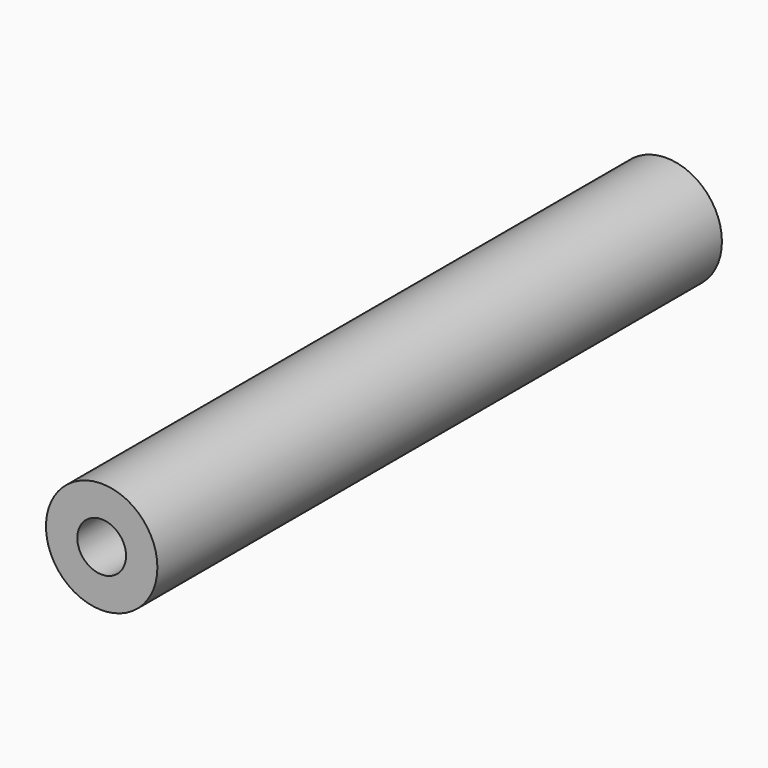
from build123d import *

# Parameters (mm, degrees)
F0_R     = 9.525
F1_DEPTH = 60.325
F2_R     = 4.167188
F3_DEPTH = 38.1
F4_R     = 4.960938
F5_DEPTH = 31.75


with BuildPart() as f1:
    # F0 (on Front) → F1 (new body, symmetric)
    with BuildSketch(Plane.XZ):
        Circle(F0_R)
    extrude(amount=F1_DEPTH, both=True)

    # F2 (on face) → F3 (cut)
    with BuildSketch(Plane.XZ.offset(60.325)):
        Circle(F2_R)
    extrude(amount=-F3_DEPTH, mode=Mode.SUBTRACT)

    # F4 (on face) → F5 (cut)
    with BuildSketch(Plane(origin=(0, 60.325, 0), x_dir=(-1, 0, 0), z_dir=(0, 1, 0))):
        Circle(F4_R)
    extrude(amount=-F5_DEPTH, mode=Mode.SUBTRACT)


solid = f1.part
